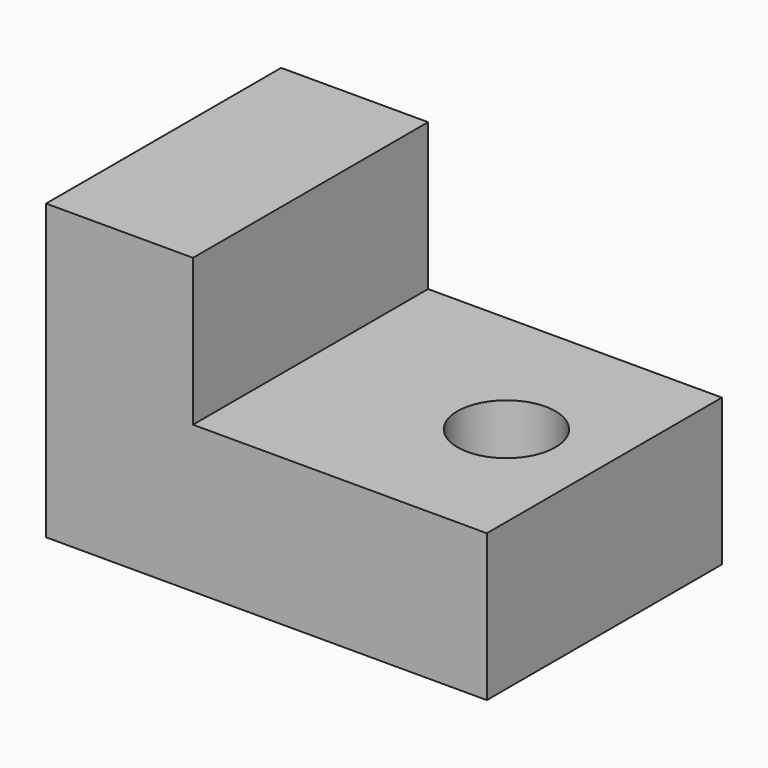
from build123d import *

# Parameters (mm, degrees)
F1_DEPTH = 152.4
F3_D     = 50.8


with BuildPart() as f1:
    # F0 (on Front) → F1 (new body)
    with BuildSketch(Plane.XZ):
        Polygon((-228.6, 0), (0, 0), (0, 76.2), (-152.4, 76.2), (-152.4, 152.4), (-228.6, 152.4), align=None)
    extrude(amount=F1_DEPTH)

    # F3 (through all)
    with Locations(Plane.XY.offset(76.2)):
        with Locations((-50.8, -76.2)):
            Hole(F3_D / 2)


solid = f1.part
